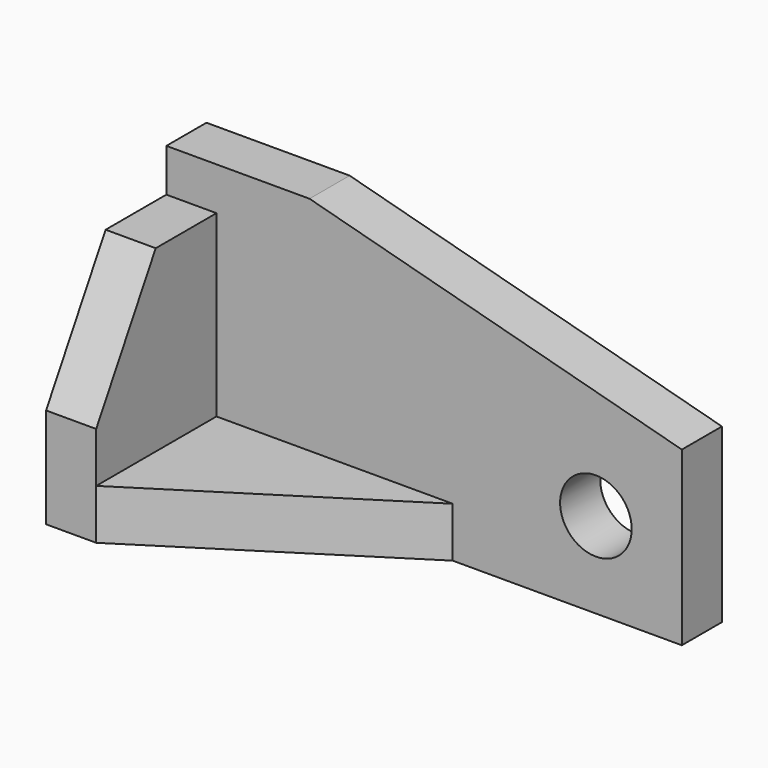
from build123d import *

# Parameters (mm, degrees)
F0_W     = 11.1125
F0_H     = 33.3375
F1_DEPTH = 50.8
F2_DEPTH = 60.325
F3_DEPTH = 11.1125
F5_DEPTH = 11.1125
F4_R     = 7.9375
F6_DEPTH = 11.1125
F8_DEPTH = 11.1125


with BuildPart() as f1:
    # F0 (on Top) → F1 (new body)
    with BuildSketch(Plane.XY):
        with Locations((5.55625, 16.66875)):
            Rectangle(F0_W, F0_H)
    extrude(amount=F1_DEPTH)

    # F0 (on Top) → F2 (join)
    with BuildSketch(Plane.XY):
        Polygon((0, 44.45), (0, 33.3375), (11.1125, 33.3375), (63.5, 33.3375), (114.3, 33.3375), (114.3, 44.45), align=None)
    extrude(amount=F2_DEPTH)

    # F0 (on Top) → F3 (join)
    with BuildSketch(Plane.XY):
        Polygon((11.1125, 33.3375), (11.1125, 0), (63.5, 33.3375), align=None)
    extrude(amount=F3_DEPTH)

    # F4 (on face) → F5 (cut)
    with BuildSketch(Plane.XZ.offset(-33.3375)):
        Polygon((114.3, 60.325), (31.75, 60.325), (114.3, 38.205794), align=None)
    extrude(amount=-F5_DEPTH, mode=Mode.SUBTRACT)

    # F4 (on face) → F6 (cut)
    with BuildSketch(Plane.XZ.offset(-33.3375)):
        with Locations((95.25, 19.05)):
            Circle(F4_R)
    extrude(amount=-F6_DEPTH, mode=Mode.SUBTRACT)

    # F7 (on face) → F8 (cut)
    with BuildSketch(Plane(origin=(0, 0, 0), x_dir=(0, -1, 0), z_dir=(-1, 0, 0))):
        Polygon((-16.497784, 50.8), (0, 22.225), (0, 50.8), align=None)
    extrude(amount=-F8_DEPTH, mode=Mode.SUBTRACT)


solid = f1.part
